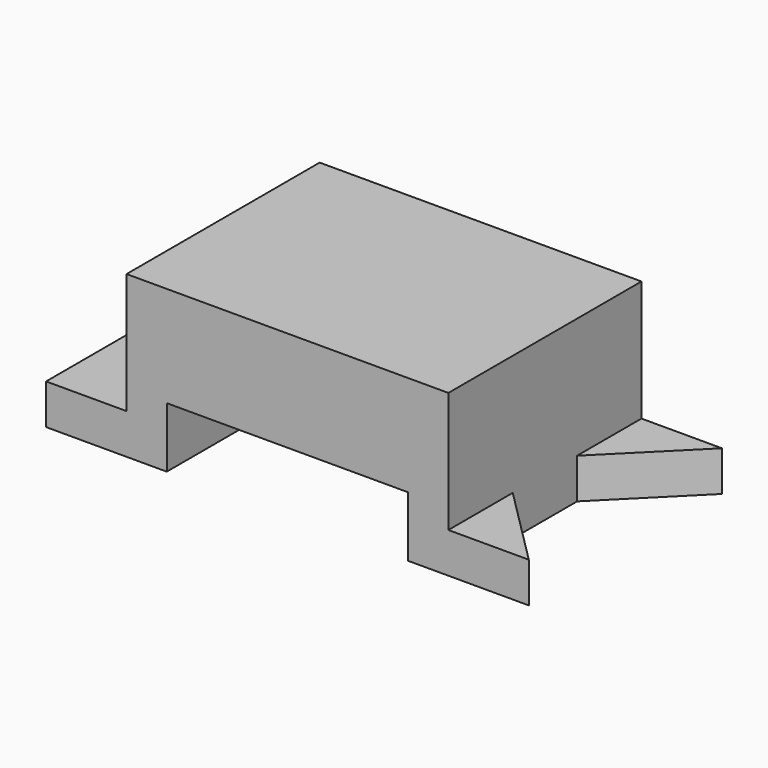
from build123d import *

# Parameters (mm, degrees)
F0_W     = 25.4
F0_H     = 76.2
F1_DEPTH = 12.7
F2_DEPTH = 50.8
F3_DEPTH = 12.7
F4_DEPTH = 12.7
F5_W     = 76.2
F5_H     = 19.05
F6_DEPTH = 76.201


with BuildPart() as f1:
    # F0 (on Top) → F1 (new body)
    with BuildSketch(Plane.XY):
        with Locations((-57.857848, 13.34642)):
            Rectangle(F0_W, F0_H)
    extrude(amount=F1_DEPTH)

    # F0 (on Top) → F2 (join)
    with BuildSketch(Plane.XY):
        Polygon((56.442152, 51.44642), (-45.157848, 51.44642), (-45.157848, -24.75358), (56.442152, -24.75358), (56.442152, 0.64642), (56.442152, 26.04642), align=None)
    extrude(amount=F2_DEPTH)

    # F0 (on Top) → F3 (join)
    with BuildSketch(Plane.XY):
        Polygon((81.842152, 51.44642), (56.442152, 51.44642), (56.442152, 26.04642), align=None)
    extrude(amount=F3_DEPTH)

    # F0 (on Top) → F4 (join)
    with BuildSketch(Plane.XY):
        Polygon((56.442152, 0.64642), (56.442152, -24.75358), (81.842152, -24.75358), align=None)
    extrude(amount=F4_DEPTH)

    # F5 (on face) → F6 (cut, through all)
    with BuildSketch(Plane.XZ.offset(24.75358)):
        with Locations((5.642152, 9.525)):
            Rectangle(F5_W, F5_H)
    extrude(amount=-F6_DEPTH, mode=Mode.SUBTRACT)


solid = f1.part
